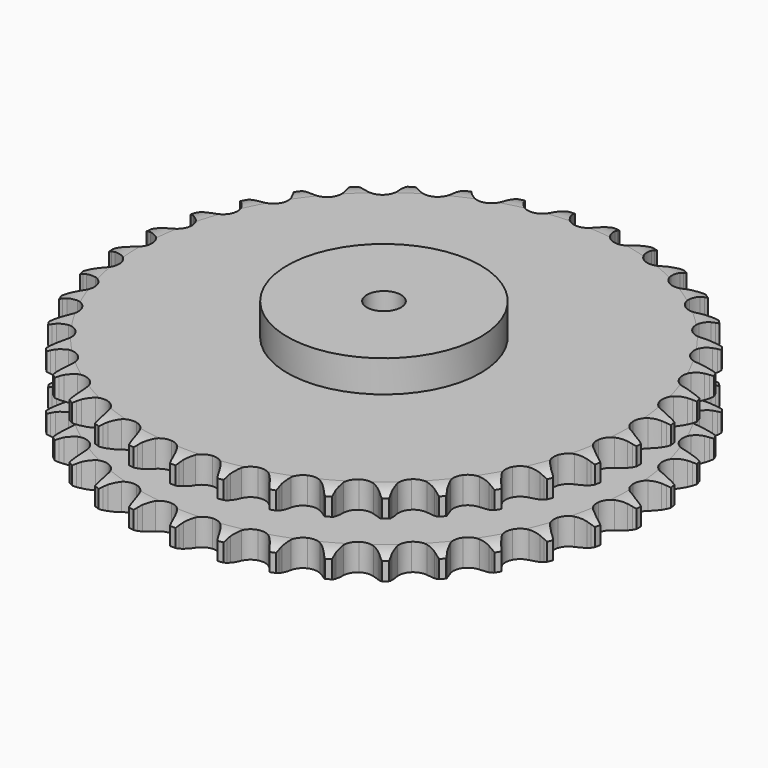
from build123d import *

# Parameters (mm, degrees)
PAD_DEPTH         = 72
SKETCH001_R       = 85
PAD001_DEPTH      = 100
SKETCH002_R       = 15
POCKET_DEPTH      = 0.001
POCKET_DEPTH_BACK = 100.001


with BuildPart() as part:
    # Sprocket → Pad (new body)
    with BuildSketch(Plane.XY):
        with BuildLine():
            ThreePointArc((-20.035717, 235.402634), (-17.71459, 232.256395), (-16.02752, 228.729323))
            Line((-16.02752, 228.729323), (-14.78864, 225.350347))
            ThreePointArc((-14.78864, 225.350347), (-12.832633, 221.009539), (-10.274467, 216.994023))
            ThreePointArc((-10.274467, 216.994023), (-5.749844, 213.192865), (0, 211.828933))
            ThreePointArc((0, 211.828933), (5.749844, 213.192865), (10.274467, 216.994023))
            ThreePointArc((10.274467, 216.994023), (12.832633, 221.009539), (14.78864, 225.350347))
            Line((14.78864, 225.350347), (16.02752, 228.729323))
            ThreePointArc((16.02752, 228.729323), (17.71459, 232.256395), (20.035717, 235.402634))
            ThreePointArc((20.035717, 235.402634), (21.79174, 231.909379), (22.858465, 228.147924))
            Line((22.858465, 228.147924), (23.508474, 224.60818))
            ThreePointArc((23.508474, 224.60818), (24.702746, 219.999243), (26.54549, 215.609155))
            ThreePointArc((26.54549, 215.609155), (30.362631, 211.098008), (35.799263, 208.781966))
            ThreePointArc((35.799263, 208.781966), (41.696907, 209.154551), (46.798846, 212.136368))
            Line((46.798846, 212.136368), (52.660313, 219.609595))
            ThreePointArc((52.660313, 219.609595), (53.513946, 221.194454), (54.452422, 222.730596))
            ThreePointArc((54.452422, 222.730596), (56.711303, 225.921818), (59.53076, 228.630528))
            ThreePointArc((59.53076, 228.630528), (60.67116, 224.890752), (61.086853, 221.003124))
            Line((61.086853, 221.003124), (61.129293, 217.404444))
            ThreePointArc((61.129293, 217.404444), (61.527472, 212.65997), (62.601781, 208.021604))
            ThreePointArc((62.601781, 208.021604), (65.601629, 202.930245), (70.568647, 199.728723))
            ThreePointArc((70.568647, 199.728723), (76.444425, 199.099242), (81.976907, 201.175936))
            Line((81.976907, 201.175936), (89.017044, 207.551075))
            ThreePointArc((89.017044, 207.551075), (90.12624, 208.968873), (91.310827, 210.324315))
            ThreePointArc((91.310827, 210.324315), (94.076535, 213.087882), (97.313211, 215.281139))
            ThreePointArc((97.313211, 215.281139), (97.805183, 211.402427), (97.557883, 207.500467))
            Line((97.557883, 207.500467), (96.991533, 203.946378))
            ThreePointArc((96.991533, 203.946378), (96.582165, 199.202857), (96.857133, 194.44965))
            ThreePointArc((96.857133, 194.44965), (98.953387, 188.924549), (103.307899, 184.929648))
            ThreePointArc((103.307899, 184.929648), (108.992777, 183.31621), (114.796643, 184.428039))
            Line((114.796643, 184.428039), (122.812916, 189.521688))
            ThreePointArc((122.812916, 189.521688), (124.145767, 190.731637), (125.542385, 191.867386))
            ThreePointArc((125.542385, 191.867386), (128.735357, 194.123795), (132.296138, 195.738504))
            ThreePointArc((132.296138, 195.738504), (132.125528, 191.832439), (131.222351, 188.0284))
            Line((131.222351, 188.0284), (130.063503, 184.621147))
            ThreePointArc((130.063503, 184.621147), (128.858364, 180.01504), (128.326082, 175.283734))
            ThreePointArc((128.326082, 175.283734), (129.458436, 169.483838), (133.075172, 164.810484))
            ThreePointArc((133.075172, 164.810484), (138.405605, 162.259504), (144.313887, 162.374482))
            Line((144.313887, 162.374482), (153.075685, 166.040108))
            ThreePointArc((153.075685, 166.040108), (154.593847, 167.007399), (156.162318, 167.890783))
            ThreePointArc((156.162318, 167.890783), (159.690696, 169.57512), (163.473146, 170.564828))
            ThreePointArc((163.473146, 170.564828), (162.644862, 166.743782), (161.111791, 163.147097))
            Line((161.111791, 163.147097), (159.393784, 159.984701))
            ThreePointArc((159.393784, 159.984701), (157.427544, 155.648518), (156.103322, 151.075224))
            ThreePointArc((156.103322, 151.075224), (156.239202, 145.167386), (159.014113, 139.950022))
            ThreePointArc((159.014113, 139.950022), (163.836756, 136.534888), (169.679484, 135.649708))
            Line((169.679484, 135.649708), (178.934745, 137.781855))
            ThreePointArc((178.934745, 137.781855), (180.594542, 138.478663), (182.289745, 139.084267))
            ThreePointArc((182.289745, 139.084267), (186.052025, 140.148078), (189.947329, 140.484312))
            ThreePointArc((189.947329, 140.484312), (188.485199, 136.858209), (186.366337, 133.57235))
            Line((186.366337, 133.57235), (184.138595, 130.745786))
            ThreePointArc((184.138595, 130.745786), (181.467819, 126.804272), (179.389755, 122.520555))
            ThreePointArc((179.389755, 122.520555), (178.525251, 116.674731), (180.378508, 111.063452))
            ThreePointArc((180.378508, 111.063452), (184.554621, 106.882412), (190.163711, 105.022538))
            Line((190.163711, 105.022538), (199.646178, 105.55987))
            ThreePointArc((199.646178, 105.55987), (201.399862, 105.966148), (203.173028, 106.27655))
            ThreePointArc((203.173028, 106.27655), (207.060977, 106.68923), (210.957074, 106.362319))
            ThreePointArc((210.957074, 106.362319), (208.903161, 103.035475), (206.259464, 100.154969))
            Line((206.259464, 100.154969), (203.586074, 97.745554))
            ThreePointArc((203.586074, 97.745554), (200.287595, 94.312097), (197.515471, 90.441192))
            ThreePointArc((197.515471, 90.441192), (195.675453, 84.825558), (196.553742, 78.98179))
            ThreePointArc((196.553742, 78.98179), (199.963186, 74.155123), (205.177274, 71.374062))
            Line((205.177274, 71.374062), (214.614154, 70.30112))
            ThreePointArc((214.614154, 70.30112), (216.411274, 70.405179), (218.211393, 70.41145))
            ThreePointArc((218.211393, 70.41145), (222.11316, 70.161128), (225.897968, 69.180475))
            ThreePointArc((225.897968, 69.180475), (223.311359, 66.248598), (220.218881, 63.856313))
            Line((220.218881, 63.856313), (217.176752, 61.933359))
            ThreePointArc((217.176752, 61.933359), (213.345463, 59.106736), (209.959026, 55.760001))
            ThreePointArc((209.959026, 55.760001), (207.196429, 50.536107), (207.074483, 44.627965))
            ThreePointArc((207.074483, 44.627965), (209.619175, 39.294527), (214.288261, 35.672283))
            Line((214.288261, 35.672283), (223.408072, 33.019934))
            ThreePointArc((223.408072, 33.019934), (225.196928, 32.818782), (226.972214, 32.520741))
            ThreePointArc((226.972214, 32.520741), (230.775553, 31.614618), (234.340188, 30.008435))
            ThreePointArc((234.340188, 30.008435), (231.295296, 27.555869), (227.843003, 25.720626))
            Line((227.843003, 25.720626), (224.519651, 24.339455))
            ThreePointArc((224.519651, 24.339455), (220.265769, 22.200981), (216.362443, 19.474697))
            ThreePointArc((216.362443, 19.474697), (212.75674, 14.792825), (211.638068, 8.990275))
            ThreePointArc((211.638068, 8.990275), (213.244801, 3.303498), (217.234564, -1.055722))
            Line((217.234564, -1.055722), (225.774946, -5.211175))
            ThreePointArc((225.774946, -5.211175), (227.504076, -5.711752), (229.203457, -6.305531))
            ThreePointArc((229.203457, -6.305531), (232.798953, -7.841388), (236.040868, -10.026893))
            ThreePointArc((236.040868, -10.026893), (232.625288, -11.929591), (228.912495, -13.154996))
            Line((228.912495, -13.154996), (225.403528, -13.954651))
            ThreePointArc((225.403528, -13.954651), (220.849431, -15.343456), (216.541506, -17.370859))
            ThreePointArc((216.541506, -17.370859), (212.196428, -21.37602), (210.113211, -26.906049))
            ThreePointArc((210.113211, -26.906049), (210.735762, -32.782566), (213.931425, -37.753356))
            Line((213.931425, -37.753356), (221.646686, -43.292368))
            ThreePointArc((221.646686, -43.292368), (223.266347, -44.077969), (224.840934, -44.950404))
            ThreePointArc((224.840934, -44.950404), (228.125151, -47.07181), (230.951082, -49.773766))
            ThreePointArc((230.951082, -49.773766), (227.263074, -51.07186), (223.396592, -51.652173))
            Line((223.396592, -51.652173), (219.802956, -51.847307))
            ThreePointArc((219.802956, -51.847307), (215.079656, -52.446489), (210.491064, -53.716687))
            ThreePointArc((210.491064, -53.716687), (205.53161, -56.929916), (202.543779, -62.028335))
            ThreePointArc((202.543779, -62.028335), (202.16424, -67.925535), (204.473868, -73.364895))
            Line((204.473868, -73.364895), (211.142055, -80.128119))
            ThreePointArc((211.142055, -80.128119), (212.605651, -81.176143), (214.010147, -82.302136))
            ThreePointArc((214.010147, -82.302136), (216.888604, -84.948063), (219.217253, -88.088738))
            ThreePointArc((219.217253, -88.088738), (215.362916, -88.744883), (211.453976, -88.663411))
            Line((211.453976, -88.663411), (207.879053, -88.248411))
            ThreePointArc((207.879053, -88.248411), (203.122431, -88.040732), (198.385177, -88.517184))
            ThreePointArc((198.385177, -88.517184), (192.954023, -90.846042), (189.147532, -95.366179))
            ThreePointArc((189.147532, -95.366179), (187.77682, -101.11441), (189.13397, -106.865859))
            Line((189.13397, -106.865859), (194.563251, -114.658729))
            ThreePointArc((194.563251, -114.658729), (195.828677, -115.939028), (197.022677, -117.286185))
            ThreePointArc((197.022677, -117.286185), (199.412566, -120.380514), (201.176944, -123.869557))
            ThreePointArc((201.176944, -123.869557), (197.267158, -123.864878), (193.428214, -123.123964))
            Line((193.428214, -123.123964), (189.974848, -122.110768))
            ThreePointArc((189.974848, -122.110768), (185.321744, -121.102204), (180.572111, -120.771203))
            ThreePointArc((180.572111, -120.771203), (174.825499, -122.148692), (170.309854, -125.960511))
            ThreePointArc((170.309854, -125.960511), (167.987403, -131.394408), (168.353032, -137.292487))
            Line((168.353032, -137.292487), (172.387216, -145.890817))
            ThreePointArc((172.387216, -145.890817), (173.418069, -147.366557), (174.367224, -148.896124))
            ThreePointArc((174.367224, -148.896124), (176.199792, -152.349838), (177.34914, -156.086875))
            ThreePointArc((177.34914, -156.086875), (173.496384, -155.421507), (169.837875, -154.042464))
            Line((169.837875, -154.042464), (166.605413, -152.460221))
            ThreePointArc((166.605413, -152.460221), (162.189688, -150.679786), (157.564313, -149.550854))
            ThreePointArc((157.564313, -149.550854), (151.667565, -149.937347), (146.572672, -152.931189))
            ThreePointArc((146.572672, -152.931189), (143.365295, -157.894428), (142.728884, -163.76946))
            Line((142.728884, -163.76946), (145.251915, -172.925891))
            ThreePointArc((145.251915, -172.925891), (146.018539, -174.55462), (146.695543, -176.222592))
            ThreePointArc((146.695543, -176.222592), (147.918071, -179.936333), (148.419324, -183.813857))
            ThreePointArc((148.419324, -183.813857), (144.734434, -182.506941), (141.361608, -180.529444))
            Line((141.361608, -180.529444), (138.443043, -178.423671))
            ThreePointArc((138.443043, -178.423671), (134.391729, -175.922584), (130.023677, -174.028199))
            ThreePointArc((130.023677, -174.028199), (124.14643, -173.412578), (118.618861, -175.502315))
            ThreePointArc((118.618861, -175.502315), (114.618827, -179.852113), (112.998686, -185.535084))
            Line((112.998686, -185.535084), (113.937981, -194.986202))
            ThreePointArc((113.937981, -194.986202), (114.418321, -196.721063), (114.803699, -198.479458))
            ThreePointArc((114.803699, -198.479458), (115.381016, -202.346388), (115.219755, -206.25285))
            ThreePointArc((115.219755, -206.25285), (111.808738, -204.341983), (108.818626, -201.82292))
            Line((108.818626, -201.82292), (106.297919, -199.254197))
            ThreePointArc((106.297919, -199.254197), (102.727566, -196.104411), (98.742496, -193.49907))
            ThreePointArc((98.742496, -193.49907), (93.053829, -191.899044), (87.252602, -193.024559))
            ThreePointArc((87.252602, -193.024559), (82.574985, -196.63578), (80.017722, -201.963202))
            Line((80.017722, -201.963202), (79.346259, -211.437116))
            ThreePointArc((79.346259, -211.437116), (79.526497, -213.2282), (79.609161, -215.026431))
            ThreePointArc((79.609161, -215.026431), (79.52466, -218.935306), (78.705523, -222.758323))
            ThreePointArc((78.705523, -222.758323), (75.666509, -220.298478), (73.14513, -217.310318))
            Line((73.14513, -217.310318), (71.094798, -214.352542))
            ThreePointArc((71.094798, -214.352542), (68.108117, -210.64467), (64.620674, -207.403325))
            ThreePointArc((64.620674, -207.403325), (59.284238, -204.864924), (53.376244, -204.993837))
            ThreePointArc((53.376244, -204.993837), (48.155611, -207.762594), (44.734793, -212.581205))
            Line((44.734793, -212.581205), (42.471889, -221.805368))
            ThreePointArc((42.471889, -221.805368), (42.34684, -223.60115), (42.124412, -225.387485))
            ThreePointArc((42.124412, -225.387485), (41.380524, -229.225854), (39.927076, -232.855445))
            ThreePointArc((39.927076, -232.855445), (37.347491, -229.917387), (35.367382, -226.546094))
            Line((35.367382, -226.546094), (33.846409, -223.284355))
            ThreePointArc((33.846409, -223.284355), (31.529321, -219.125066), (28.639832, -215.340964))
            ThreePointArc((28.639832, -215.340964), (23.809148, -211.937214), (17.964348, -211.065817))
            ThreePointArc((17.964348, -211.065817), (12.350888, -212.912456), (8.164925, -217.083635))
            Line((8.164925, -217.083635), (4.37568, -225.792684))
            ThreePointArc((4.37568, -225.792684), (3.948941, -227.541501), (3.427821, -229.264551))
            ThreePointArc((3.427821, -229.264551), (2.045945, -232.921991), (0, -236.25374))
            ThreePointArc((0, -236.25374), (-2.045945, -232.921991), (-3.427821, -229.264551))
            Line((-3.427821, -229.264551), (-4.37568, -225.792684))
            ThreePointArc((-4.37568, -225.792684), (-5.956515, -221.301633), (-8.164925, -217.083635))
            ThreePointArc((-8.164925, -217.083635), (-12.350888, -212.912456), (-17.964348, -211.065817))
            ThreePointArc((-17.964348, -211.065817), (-23.809148, -211.937214), (-28.639832, -215.340964))
            Line((-28.639832, -215.340964), (-33.846409, -223.284355))
            ThreePointArc((-33.846409, -223.284355), (-34.562561, -224.935898), (-35.367382, -226.546094))
            ThreePointArc((-35.367382, -226.546094), (-37.347491, -229.917387), (-39.927076, -232.855445))
            ThreePointArc((-39.927076, -232.855445), (-41.380524, -229.225854), (-42.124412, -225.387485))
            Line((-42.124412, -225.387485), (-42.471889, -221.805368))
            ThreePointArc((-42.471889, -221.805368), (-43.270993, -217.111754), (-44.734793, -212.581205))
            ThreePointArc((-44.734793, -212.581205), (-48.155611, -207.762594), (-53.376244, -204.993837))
            ThreePointArc((-53.376244, -204.993837), (-59.284238, -204.864924), (-64.620674, -207.403325))
            Line((-64.620674, -207.403325), (-71.094798, -214.352542))
            ThreePointArc((-71.094798, -214.352542), (-72.079761, -215.859299), (-73.14513, -217.310318))
            ThreePointArc((-73.14513, -217.310318), (-75.666509, -220.298478), (-78.705523, -222.758323))
            ThreePointArc((-78.705523, -222.758323), (-79.52466, -218.935306), (-79.609161, -215.026431))
            Line((-79.609161, -215.026431), (-79.346259, -211.437116))
            ThreePointArc((-79.346259, -211.437116), (-79.340644, -206.675966), (-80.017722, -201.963202))
            ThreePointArc((-80.017722, -201.963202), (-82.574985, -196.63578), (-87.252602, -193.024559))
            ThreePointArc((-87.252602, -193.024559), (-93.053829, -191.899044), (-98.742496, -193.49907))
            Line((-98.742496, -193.49907), (-106.297919, -199.254197))
            ThreePointArc((-106.297919, -199.254197), (-107.523358, -200.572821), (-108.818626, -201.82292))
            ThreePointArc((-108.818626, -201.82292), (-111.808738, -204.341983), (-115.219755, -206.25285))
            ThreePointArc((-115.219755, -206.25285), (-115.381016, -202.346388), (-114.803699, -198.479458))
            Line((-114.803699, -198.479458), (-113.937981, -194.986202))
            ThreePointArc((-113.937981, -194.986202), (-113.127809, -190.294486), (-112.998686, -185.535084))
            ThreePointArc((-112.998686, -185.535084), (-114.618827, -179.852113), (-118.618861, -175.502315))
            ThreePointArc((-118.618861, -175.502315), (-124.14643, -173.412578), (-130.023677, -174.028199))
            Line((-130.023677, -174.028199), (-138.443043, -178.423671))
            ThreePointArc((-138.443043, -178.423671), (-139.873704, -179.516228), (-141.361608, -180.529444))
            ThreePointArc((-141.361608, -180.529444), (-144.734434, -182.506941), (-148.419324, -183.813857))
            ThreePointArc((-148.419324, -183.813857), (-147.918071, -179.936333), (-146.695543, -176.222592))
            Line((-146.695543, -176.222592), (-145.251915, -172.925891))
            ThreePointArc((-145.251915, -172.925891), (-143.660493, -168.438581), (-142.728884, -163.76946))
            ThreePointArc((-142.728884, -163.76946), (-143.365295, -157.894428), (-146.572672, -152.931189))
            ThreePointArc((-146.572672, -152.931189), (-151.667565, -149.937347), (-157.564313, -149.550854))
            Line((-157.564313, -149.550854), (-166.605413, -152.460221))
            ThreePointArc((-166.605413, -152.460221), (-168.200137, -153.295279), (-169.837875, -154.042464))
            ThreePointArc((-169.837875, -154.042464), (-173.496384, -155.421507), (-177.34914, -156.086875))
            ThreePointArc((-177.34914, -156.086875), (-176.199792, -152.349838), (-174.367224, -148.896124))
            Line((-174.367224, -148.896124), (-172.387216, -145.890817))
            ThreePointArc((-172.387216, -145.890817), (-170.060326, -141.737004), (-168.353032, -137.292487))
            ThreePointArc((-168.353032, -137.292487), (-167.987403, -131.394408), (-170.309854, -125.960511))
            ThreePointArc((-170.309854, -125.960511), (-174.825499, -122.148692), (-180.572111, -120.771203))
            Line((-180.572111, -120.771203), (-189.974848, -122.110768))
            ThreePointArc((-189.974848, -122.110768), (-191.68776, -122.664305), (-193.428214, -123.123964))
            ThreePointArc((-193.428214, -123.123964), (-197.267158, -123.864878), (-201.176944, -123.869557))
            ThreePointArc((-201.176944, -123.869557), (-199.412566, -120.380514), (-197.022677, -117.286185))
            Line((-197.022677, -117.286185), (-194.563251, -114.658729))
            ThreePointArc((-194.563251, -114.658729), (-191.567833, -110.957912), (-189.13397, -106.865859))
            ThreePointArc((-189.13397, -106.865859), (-187.77682, -101.11441), (-189.147532, -95.366179))
            ThreePointArc((-189.147532, -95.366179), (-192.954023, -90.846042), (-198.385177, -88.517184))
            Line((-198.385177, -88.517184), (-207.879053, -88.248411))
            ThreePointArc((-207.879053, -88.248411), (-209.660874, -88.504502), (-211.453976, -88.663411))
            ThreePointArc((-211.453976, -88.663411), (-215.362916, -88.744883), (-219.217253, -88.088738))
            ThreePointArc((-219.217253, -88.088738), (-216.888604, -84.948063), (-214.010147, -82.302136))
            Line((-214.010147, -82.302136), (-211.142055, -80.128119))
            ThreePointArc((-211.142055, -80.128119), (-207.564282, -76.986762), (-204.473868, -73.364895))
            ThreePointArc((-204.473868, -73.364895), (-202.16424, -67.925535), (-202.543779, -62.028335))
            ThreePointArc((-202.543779, -62.028335), (-205.53161, -56.929916), (-210.491064, -53.716687))
            Line((-210.491064, -53.716687), (-219.802956, -51.847307))
            ThreePointArc((-219.802956, -51.847307), (-221.602426, -51.798586), (-223.396592, -51.652173))
            ThreePointArc((-223.396592, -51.652173), (-227.263074, -51.07186), (-230.951082, -49.773766))
            ThreePointArc((-230.951082, -49.773766), (-228.125151, -47.07181), (-224.840934, -44.950404))
            Line((-224.840934, -44.950404), (-221.646686, -43.292368))
            ThreePointArc((-221.646686, -43.292368), (-217.589484, -40.800844), (-213.931425, -37.753356))
            ThreePointArc((-213.931425, -37.753356), (-210.735762, -32.782566), (-210.113211, -26.906049))
            ThreePointArc((-210.113211, -26.906049), (-212.196428, -21.37602), (-216.541506, -17.370859))
            Line((-216.541506, -17.370859), (-225.403528, -13.954651))
            ThreePointArc((-225.403528, -13.954651), (-227.168881, -13.602518), (-228.912495, -13.154996))
            ThreePointArc((-228.912495, -13.154996), (-232.625288, -11.929591), (-236.040868, -10.026893))
            ThreePointArc((-236.040868, -10.026893), (-232.798953, -7.841388), (-229.203457, -6.305531))
            Line((-229.203457, -6.305531), (-225.774946, -5.211175))
            ThreePointArc((-225.774946, -5.211175), (-221.355034, -3.44116), (-217.234564, -1.055722))
            ThreePointArc((-217.234564, -1.055722), (-213.244801, 3.303498), (-211.638068, 8.990275))
            ThreePointArc((-211.638068, 8.990275), (-212.75674, 14.792825), (-216.362443, 19.474697))
            Line((-216.362443, 19.474697), (-224.519651, 24.339455))
            ThreePointArc((-224.519651, 24.339455), (-226.2001, 24.984869), (-227.843003, 25.720626))
            ThreePointArc((-227.843003, 25.720626), (-231.295296, 27.555869), (-234.340188, 30.008435))
            ThreePointArc((-234.340188, 30.008435), (-230.775553, 31.614618), (-226.972214, 32.520741))
            Line((-226.972214, 32.520741), (-223.408072, 33.019934))
            ThreePointArc((-223.408072, 33.019934), (-218.752602, 34.017521), (-214.288261, 35.672283))
            ThreePointArc((-214.288261, 35.672283), (-209.619175, 39.294527), (-207.074483, 44.627965))
            ThreePointArc((-207.074483, 44.627965), (-207.196429, 50.536107), (-209.959026, 55.760001))
            Line((-209.959026, 55.760001), (-217.176752, 61.933359))
            ThreePointArc((-217.176752, 61.933359), (-218.723954, 62.853487), (-220.218881, 63.856313))
            ThreePointArc((-220.218881, 63.856313), (-223.311359, 66.248598), (-225.897968, 69.180475))
            ThreePointArc((-225.897968, 69.180475), (-222.11316, 70.161128), (-218.211393, 70.41145))
            Line((-218.211393, 70.41145), (-214.614154, 70.30112))
            ThreePointArc((-214.614154, 70.30112), (-209.857056, 70.497579), (-205.177274, 71.374062))
            ThreePointArc((-205.177274, 71.374062), (-199.963186, 74.155123), (-196.553742, 78.98179))
            ThreePointArc((-196.553742, 78.98179), (-195.675453, 84.825558), (-197.515471, 90.441192))
            Line((-197.515471, 90.441192), (-203.586074, 97.745554))
            ThreePointArc((-203.586074, 97.745554), (-204.955518, 98.913924), (-206.259464, 100.154969))
            ThreePointArc((-206.259464, 100.154969), (-208.903161, 103.035475), (-210.957074, 106.362319))
            ThreePointArc((-210.957074, 106.362319), (-207.060977, 106.68923), (-203.173028, 106.27655))
            Line((-203.173028, 106.27655), (-199.646178, 105.55987))
            ThreePointArc((-199.646178, 105.55987), (-194.924305, 104.94955), (-190.163711, 105.022538))
            ThreePointArc((-190.163711, 105.022538), (-184.554621, 106.882412), (-180.378508, 111.063452))
            ThreePointArc((-180.378508, 111.063452), (-178.525251, 116.674731), (-179.389755, 122.520555))
            Line((-179.389755, 122.520555), (-184.138595, 130.745786))
            ThreePointArc((-184.138595, 130.745786), (-185.290886, 132.128788), (-186.366337, 133.57235))
            ThreePointArc((-186.366337, 133.57235), (-188.485199, 136.858209), (-189.947329, 140.484312))
            ThreePointArc((-189.947329, 140.484312), (-186.052025, 140.148078), (-182.289745, 139.084267))
            Line((-182.289745, 139.084267), (-178.934745, 137.781855))
            ThreePointArc((-178.934745, 137.781855), (-174.383936, 136.382314), (-169.679484, 135.649708))
            ThreePointArc((-169.679484, 135.649708), (-163.836756, 136.534888), (-159.014113, 139.950022))
            ThreePointArc((-159.014113, 139.950022), (-156.239202, 145.167386), (-156.103322, 151.075224))
            Line((-156.103322, 151.075224), (-159.393784, 159.984701))
            ThreePointArc((-159.393784, 159.984701), (-160.295771, 161.542547), (-161.111791, 163.147097))
            ThreePointArc((-161.111791, 163.147097), (-162.644862, 166.743782), (-163.473146, 170.564828))
            ThreePointArc((-163.473146, 170.564828), (-159.690696, 169.57512), (-156.162318, 167.890783))
            Line((-156.162318, 167.890783), (-153.075685, 166.040108))
            ThreePointArc((-153.075685, 166.040108), (-148.826859, 163.891606), (-144.313887, 162.374482))
            ThreePointArc((-144.313887, 162.374482), (-138.405605, 162.259504), (-133.075172, 164.810484))
            ThreePointArc((-133.075172, 164.810484), (-129.458436, 169.483838), (-128.326082, 175.283734))
            Line((-128.326082, 175.283734), (-130.063503, 184.621147))
            ThreePointArc((-130.063503, 184.621147), (-130.68924, 186.309022), (-131.222351, 188.0284))
            ThreePointArc((-131.222351, 188.0284), (-132.125528, 191.832439), (-132.296138, 195.738504))
            ThreePointArc((-132.296138, 195.738504), (-128.735357, 194.123795), (-125.542385, 191.867386))
            Line((-125.542385, 191.867386), (-122.812916, 189.521688))
            ThreePointArc((-122.812916, 189.521688), (-118.988304, 186.686036), (-114.796643, 184.428039))
            ThreePointArc((-114.796643, 184.428039), (-108.992777, 183.31621), (-103.307899, 184.929648))
            ThreePointArc((-103.307899, 184.929648), (-98.953387, 188.924549), (-96.857133, 194.44965))
            Line((-96.857133, 194.44965), (-96.991533, 203.946378))
            ThreePointArc((-96.991533, 203.946378), (-97.323016, 205.715725), (-97.557883, 207.500467))
            ThreePointArc((-97.557883, 207.500467), (-97.805183, 211.402427), (-97.313211, 215.281139))
            ThreePointArc((-97.313211, 215.281139), (-94.076535, 213.087882), (-91.310827, 210.324315))
            Line((-91.310827, 210.324315), (-89.017044, 207.551075))
            ThreePointArc((-89.017044, 207.551075), (-85.726672, 204.109848), (-81.976907, 201.175936))
            ThreePointArc((-81.976907, 201.175936), (-76.444425, 199.099242), (-70.568647, 199.728723))
            ThreePointArc((-70.568647, 199.728723), (-65.601629, 202.930245), (-62.601781, 208.021604))
            Line((-62.601781, 208.021604), (-61.129293, 217.404444))
            ThreePointArc((-61.129293, 217.404444), (-61.156987, 219.204361), (-61.086853, 221.003124))
            ThreePointArc((-61.086853, 221.003124), (-60.67116, 224.890752), (-59.53076, 228.630528))
            ThreePointArc((-59.53076, 228.630528), (-56.711303, 225.921818), (-54.452422, 222.730596))
            Line((-54.452422, 222.730596), (-52.660313, 219.609595))
            ThreePointArc((-52.660313, 219.609595), (-49.998841, 215.661792), (-46.798846, 212.136368))
            ThreePointArc((-46.798846, 212.136368), (-41.696907, 209.154551), (-35.799263, 208.781966))
            ThreePointArc((-35.799263, 208.781966), (-30.362631, 211.098008), (-26.54549, 215.609155))
            Line((-26.54549, 215.609155), (-23.508474, 224.60818))
            ThreePointArc((-23.508474, 224.60818), (-23.231583, 226.386887), (-22.858465, 228.147924))
            ThreePointArc((-22.858465, 228.147924), (-21.79174, 231.909379), (-20.035717, 235.402634))
        make_face()
    extrude(amount=PAD_DEPTH)

    # Sketch → Groove (revolve, cut)
    with BuildSketch(Plane.XZ):
        with BuildLine():
            ThreePointArc((215.129437, 0), (223.847235, 1.013516), (232.1, 4))
            Line((232.1, 4), (232.1, 19.6))
            ThreePointArc((232.1, 19.6), (223.847235, 22.586484), (215.129437, 23.6))
            Line((85, 23.6), (215.129437, 23.6))
            Line((85, 48.4), (85, 23.6))
            Line((215.129437, 48.4), (85, 48.4))
            ThreePointArc((215.129437, 48.4), (223.847235, 49.413516), (232.1, 52.4))
            Line((232.1, 52.4), (232.1, 68))
            ThreePointArc((232.1, 68), (223.847235, 70.986484), (215.129437, 72))
            Line((215.129437, 72), (242.1, 72))
            Line((242.1, 72), (242.1, 0))
            Line((215.129437, 0), (242.1, 0))
        make_face()
    revolve(axis=Axis((0, 0, 0), (0, 0, 1)), mode=Mode.SUBTRACT)

    # Sketch001 → Pad001 (join)
    with BuildSketch(Plane.XY):
        Circle(SKETCH001_R)
    extrude(amount=PAD001_DEPTH)

    # Sketch002 → Pocket (cut, two sides)
    with BuildSketch(Plane.XY) as pocket_sk:
        Circle(SKETCH002_R)
    extrude(amount=-POCKET_DEPTH, mode=Mode.SUBTRACT)
    extrude(pocket_sk.sketch, amount=POCKET_DEPTH_BACK, mode=Mode.SUBTRACT)


solid = part.part
